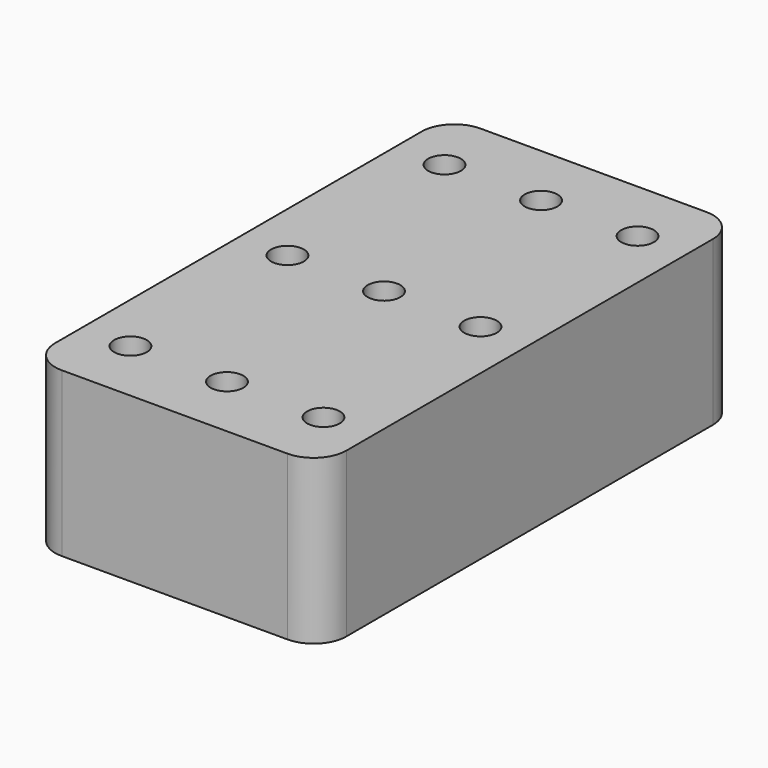
from build123d import *

# Parameters (mm, degrees)
F0_R     = 2.5
F1_DEPTH = 25
F2_R     = 5


with BuildPart() as f1:
    # F0 (on Top) → F1 (new body)
    with BuildSketch(Plane.XY):
        Polygon((4.22009, 29.344162), (-32.77991, 29.344162), (-32.77991, 19.344162), (-32.77991, -50.655838), (11.72009, -50.655838), (11.72009, 29.344162), align=None)
        with Locations((-25.27991, -40.655838)):
            Circle(F0_R, mode=Mode.SUBTRACT)
        with Locations((-10.52991, -40.655838)):
            Circle(F0_R, mode=Mode.SUBTRACT)
        with Locations((4.22009, -40.655838)):
            Circle(F0_R, mode=Mode.SUBTRACT)
        with Locations((-25.27991, -10.655838)):
            Circle(F0_R, mode=Mode.SUBTRACT)
        with Locations((-25.27991, 19.344162)):
            Circle(F0_R, mode=Mode.SUBTRACT)
        with Locations((-10.52991, -10.655838)):
            Circle(F0_R, mode=Mode.SUBTRACT)
        with Locations((4.22009, -10.655838)):
            Circle(F0_R, mode=Mode.SUBTRACT)
        with Locations((-10.52991, 19.344162)):
            Circle(F0_R, mode=Mode.SUBTRACT)
        with Locations((4.22009, 19.344162)):
            Circle(F0_R, mode=Mode.SUBTRACT)
    extrude(amount=F1_DEPTH)

    # F2
    f2_edges = [f1.edges().sort_by_distance(p)[0] for p in [
        (-32.77991, -50.655838, 12.5),
        (11.72009, -50.655838, 12.5),
        (-32.77991, 29.344162, 12.5),
        (11.72009, 29.344162, 12.5),
    ]]
    fillet(f2_edges, radius=F2_R)


solid = f1.part
